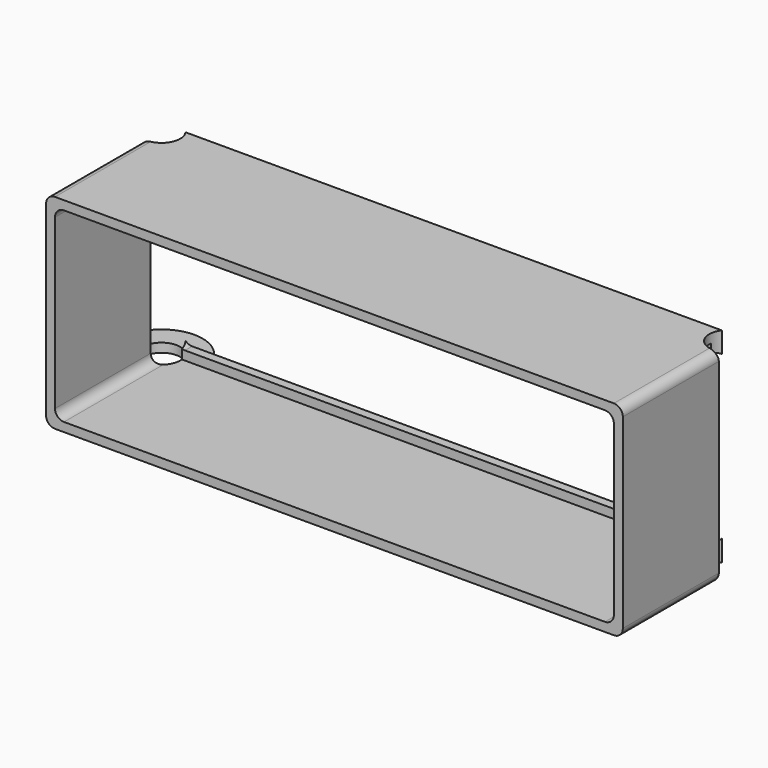
from build123d import *

# Parameters (mm, degrees)
F1_DEPTH = 20
F2_DEPTH = 1.2
F4_DEPTH = 30
F5_DEPTH = 1.2


with BuildPart() as f1:
    # F0 (on Front) → F1 (new body)
    with BuildSketch(Plane.XZ):
        with BuildLine():
            ThreePointArc((38.7, 12.5), (38.3485281374, 13.3485281374), (37.5, 13.7))
            Line((37.5, 13.7), (-37.5, 13.7))
            ThreePointArc((-37.5, 13.7), (-38.3485281374, 13.3485281374), (-38.7, 12.5))
            Line((-38.7, 12.5), (-38.7, -12.5))
            ThreePointArc((-38.7, -12.5), (-38.3485281374, -13.3485281374), (-37.5, -13.7))
            Line((-37.5, -13.7), (37.5, -13.7))
            ThreePointArc((37.5, -13.7), (38.3485281374, -13.3485281374), (38.7, -12.5))
            Line((38.7, -12.5), (38.7, 12.5))
        make_face()
        with BuildLine():
            Line((-36.3, 12.5), (36.3, 12.5))
            ThreePointArc((36.3, 12.5), (37.1485281374, 12.1485281374), (37.5, 11.3))
            Line((37.5, 11.3), (37.5, -11.3))
            ThreePointArc((37.5, -11.3), (37.1485281374, -12.1485281374), (36.3, -12.5))
            Line((36.3, -12.5), (-36.3, -12.5))
            ThreePointArc((-36.3, -12.5), (-37.1485281374, -12.1485281374), (-37.5, -11.3))
            Line((-37.5, -11.3), (-37.5, 11.3))
            ThreePointArc((-37.5, 11.3), (-37.1485281374, 12.1485281374), (-36.3, 12.5))
        make_face(mode=Mode.SUBTRACT)
    extrude(amount=F1_DEPTH)

    # F0 (on Front) → F2 (join)
    with BuildSketch(Plane.XZ):
        with BuildLine():
            ThreePointArc((37.5, 11.3), (37.1485281374, 12.1485281374), (36.3, 12.5))
            Line((36.3, 12.5), (-36.3, 12.5))
            ThreePointArc((-36.3, 12.5), (-37.1485281374, 12.1485281374), (-37.5, 11.3))
            Line((-37.5, 11.3), (-37.5, -11.3))
            ThreePointArc((-37.5, -11.3), (-37.1485281374, -12.1485281374), (-36.3, -12.5))
            Line((-36.3, -12.5), (36.3, -12.5))
            ThreePointArc((36.3, -12.5), (37.1485281374, -12.1485281374), (37.5, -11.3))
            Line((37.5, -11.3), (37.5, 11.3))
        make_face()
        with BuildLine():
            Line((-35.1000003621, 11.3000003621), (35.1000003621, 11.3000003621))
            ThreePointArc((35.1000003621, 11.3000003621), (35.9485284995, 10.9485284995), (36.3000003621, 10.1000003621))
            Line((36.3000003621, 10.1000003621), (36.3000003621, -10.1000003621))
            ThreePointArc((36.3000003621, -10.1000003621), (35.9485284995, -10.9485284995), (35.1000003621, -11.3000003621))
            Line((35.1000003621, -11.3000003621), (-35.1000003621, -11.3000003621))
            ThreePointArc((-35.1000003621, -11.3000003621), (-35.9485284995, -10.9485284995), (-36.3000003621, -10.1000003621))
            Line((-36.3000003621, -10.1000003621), (-36.3000003621, 10.1000003621))
            ThreePointArc((-36.3000003621, 10.1000003621), (-35.9485284995, 10.9485284995), (-35.1000003621, 11.3000003621))
        make_face(mode=Mode.SUBTRACT)
    extrude(amount=F2_DEPTH)

    # F3 (on face) → F4 (cut)
    with BuildSketch(Plane(origin=(0, 0, -13.7), x_dir=(1, 0, 0), z_dir=(0, 0, -1))):
        with BuildLine():
            Line((-37.5, 0), (-37.5, 3.9494897428))
            ThreePointArc((-37.5, 3.9494897428), (-40.3371173071, 0.6123724357), (-36, 0))
            Line((-36, 0), (-37.5, 0))
        make_face()
        with BuildLine():
            ThreePointArc((-36, 0), (-35.6282917549, 0.709430585), (-35.5, 1.5))
            ThreePointArc((-35.5, 1.5), (-36.0635083269, 3.0811388301), (-37.5, 3.9494897428))
            Line((-37.5, 3.9494897428), (-37.5, 0))
            Line((-37.5, 0), (-36, 0))
        make_face()
        with BuildLine():
            ThreePointArc((37.5, 3.9494897428), (35.6628826929, 2.3876275643), (36, 0))
            Line((36, 0), (37.5, 0))
            Line((37.5, 0), (37.5, 3.9494897428))
        make_face()
        with BuildLine():
            Line((37.5, 0), (36, 0))
            ThreePointArc((36, 0), (38.790569415, -0.8717082451), (40.5, 1.5))
            ThreePointArc((40.5, 1.5), (39.5811388301, 3.4364916731), (37.5, 3.9494897428))
            Line((37.5, 3.9494897428), (37.5, 0))
        make_face()
    extrude(amount=-F4_DEPTH, mode=Mode.SUBTRACT)

    # F3 (on face) → F5 (join)
    with BuildSketch(Plane(origin=(0, 0, -13.7), x_dir=(1, 0, 0), z_dir=(0, 0, -1))):
        with BuildLine():
            ThreePointArc((-36, 0), (-40.3371173071, 0.6123724357), (-37.5, 3.9494897428))
            Line((-37.5, 3.9494897428), (-37.5, 6.9772255751))
            ThreePointArc((-37.5, 6.9772255751), (-42.5338498913, -1.6135518565), (-32.7084973779, 0))
            Line((-32.7084973779, 0), (-36, 0))
        make_face()
    extrude(amount=-F5_DEPTH)


solid = f1.part
